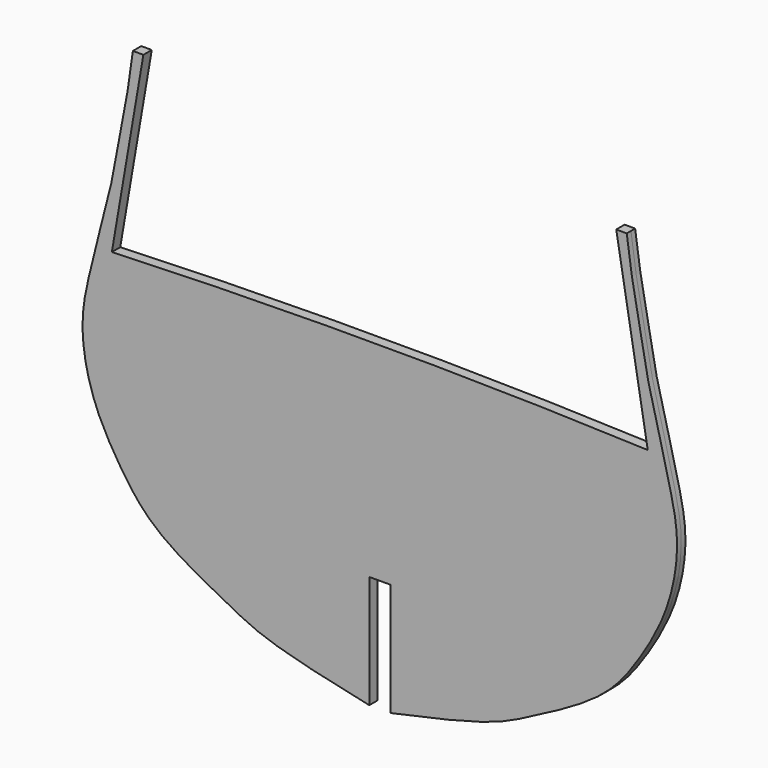
from build123d import *

# Parameters (mm, degrees)
F1_DEPTH = 1.5875


with BuildPart() as f1:
    # F0 (on Front) → F1 (new body, symmetric)
    with BuildSketch(Plane.XZ):
        with BuildLine():
            Line((-3.175, -61.11875), (0, -61.11875))
            Line((0, -61.11875), (3.175, -61.11875))
            Line((3.175, -61.11875), (3.175, -95.25))
            add(Edge.make_bspline(
                [(3.175, -95.25), (33.3375, -88.9), (39.5795085613, -85.3446662101), (67.9267228013, -70.9935703615), (77.7911004891, -57.6148606194), (85.4031652314, -44.7378270811), (89.3620904677, -31.9019888836), (90.3633064562, -18.9833784515), (87.3148735202, -6.3053265238), (84.1974940955, 6.329695869), (80.7209296449, 19.0862792212), (78.7352958966, 31.4342896627), (75.8955030499, 45.3277948902), (75.4065025295, 50.0044822935), (74.6125, 55.5625)],
                knots=[0, 0, 0, 0, 0.1377293179, 0.2414290978, 0.3267790704, 0.4060887604, 0.4818758722, 0.5559901802, 0.6306746402, 0.705847488, 0.7810203358, 0.8557047959, 0.9303892559, 1, 1, 1, 1], degree=3))
            Line((74.6125, 55.5625), (71.4375, 55.5625))
            Line((71.4375, 55.5625), (80.9625, 0))
            ThreePointArc((80.9625, 0), (0, 1.5875), (-80.9625, 0))
            Line((-80.9625, 0), (-71.4375, 55.5625))
            Line((-71.4375, 55.5625), (-74.6125, 55.5625))
            add(Edge.make_bspline(
                [(-3.175, -95.25), (-33.3375, -88.9), (-39.5795085613, -85.3446662101), (-67.9267228013, -70.9935703615), (-77.7911004891, -57.6148606194), (-85.4031652314, -44.7378270811), (-89.3620904677, -31.9019888836), (-90.3633064562, -18.9833784515), (-87.3148735202, -6.3053265238), (-84.1974940955, 6.329695869), (-80.7209296449, 19.0862792212), (-78.7352958966, 31.4342896627), (-75.8955030499, 45.3277948902), (-75.4065025295, 50.0044822935), (-74.6125, 55.5625)],
                knots=[0, 0, 0, 0, 0.1377293179, 0.2414290978, 0.3267790704, 0.4060887604, 0.4818758722, 0.5559901802, 0.6306746402, 0.705847488, 0.7810203358, 0.8557047959, 0.9303892559, 1, 1, 1, 1], degree=3))
            Line((-3.175, -95.25), (-3.175, -61.11875))
        make_face()
    extrude(amount=F1_DEPTH, both=True)


solid = f1.part
